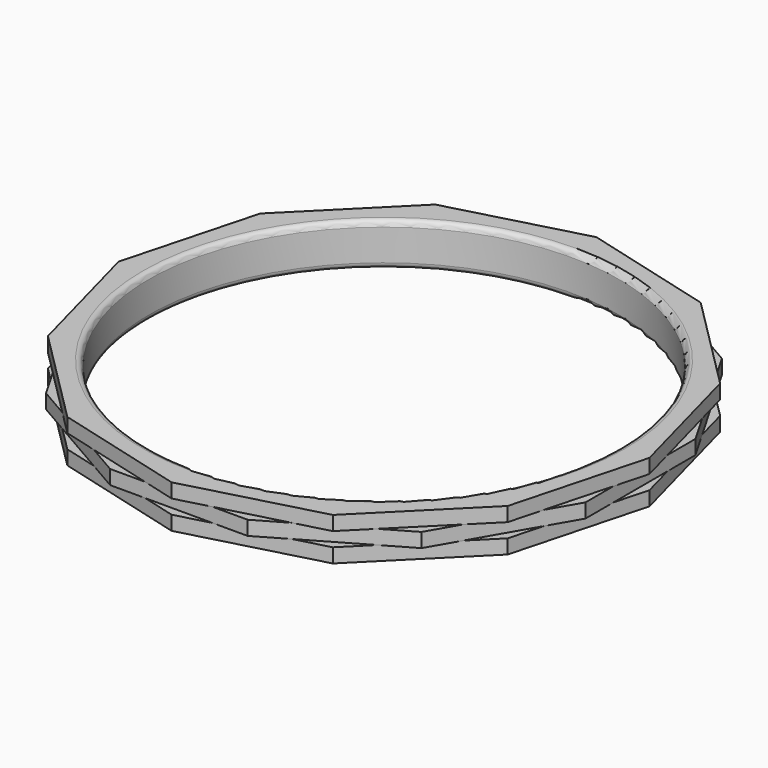
from build123d import *

# Parameters (mm, degrees)
F2_DEPTH = 0.25
F4_DEPTH = 0.5
F0_R     = 8.255
F6_DEPTH = 2.5
F7_R     = 0.2


with BuildPart() as f2:
    # F1 (on Top) → F2 (new body, symmetric)
    with BuildSketch(Plane.XY):
        Polygon((-9, -2.4115427319), (-6.5884572681, -6.5884572681), (-2.4115427319, -9), (2.4115427319, -9), (6.5884572681, -6.5884572681), (9, -2.4115427319), (9, 2.4115427319), (6.5884572681, 6.5884572681), (2.4115427319, 9), (-2.4115427319, 9), (-6.5884572681, 6.5884572681), (-9, 2.4115427319), align=None)
    extrude(amount=F2_DEPTH, both=True)

    # F3 (on face) → F4 (join)
    with BuildSketch(Plane.XY.offset(0.25)):
        Polygon((-8.0691792495, 4.6587428118), (-9.3174856237, 0), (-8.0691792495, -4.6587428118), (-4.6587428118, -8.0691792495), (0, -9.3174856237), (4.6587428118, -8.0691792495), (8.0691792495, -4.6587428118), (9.3174856237, 0), (8.0691792495, 4.6587428118), (4.6587428118, 8.0691792495), (0, 9.3174856237), (-4.6587428118, 8.0691792495), align=None)
    extrude(amount=F4_DEPTH)

    # F5: F2 across plane


with BuildPart() as f2_1:
    add(f2.part)
    add(f2.part.mirror(Plane.XY))

    # F0 (on Top) → F6 (cut, symmetric)
    with BuildSketch(Plane.XY):
        Circle(F0_R)
    extrude(amount=F6_DEPTH, both=True, mode=Mode.SUBTRACT)

    # F7
    f7_edges = [f2_1.edges().sort_by_distance(p)[0] for p in [
        (-8.255, 0, -0.75),
        (8.255, 0, 0),
        (-8.255, 0, 0.75),
    ]]
    fillet(f7_edges, radius=F7_R)


solid = f2_1.part
